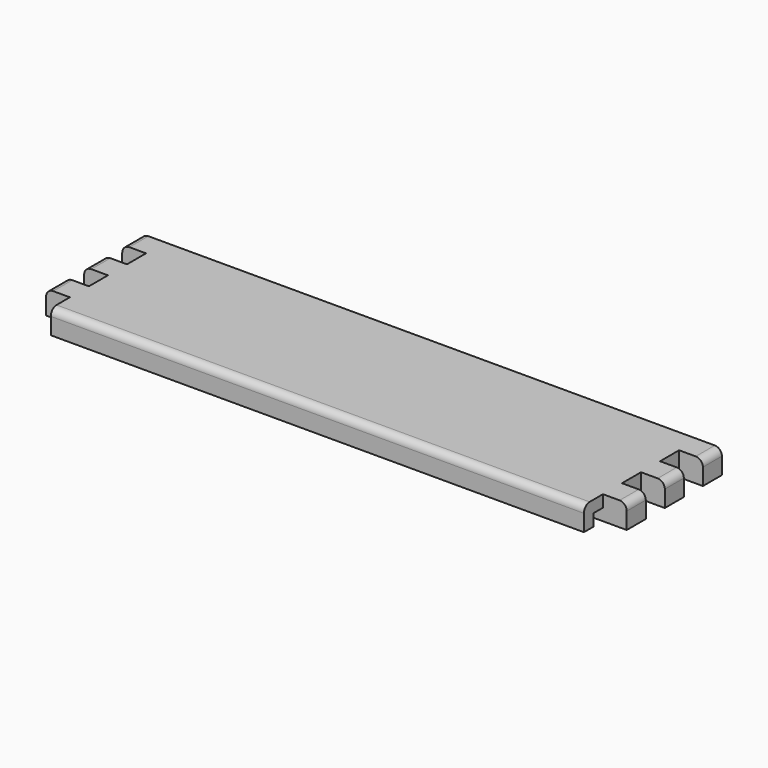
from build123d import *

# Parameters (mm, degrees)
SKETCH_W        = 244
SKETCH_H        = 70
PAD_DEPTH       = 10
FILLET_R        = 3
FILLET001_R     = 3
FILLET002_R     = 3
FILLET003_R     = 3
POCKET_DEPTH    = 5
SKETCH002_W     = 10
SKETCH002_H     = 10
SKETCH002_W_2   = 244
POCKET001_DEPTH = 10.001


with BuildPart() as part:
    # Sketch → Pad (new body)
    with BuildSketch(Plane.XY):
        Rectangle(SKETCH_W, SKETCH_H)
    extrude(amount=PAD_DEPTH)

    # Fillet
    fillet_edges = [part.edges().sort_by_distance(p)[0] for p in [
        (0, -35, 10),
    ]]
    fillet(fillet_edges, radius=FILLET_R)

    # Fillet001
    fillet001_edges = [part.edges().sort_by_distance(p)[0] for p in [
        (-122, 1.5, 10),
    ]]
    fillet(fillet001_edges, radius=FILLET001_R)

    # Fillet002
    fillet002_edges = [part.edges().sort_by_distance(p)[0] for p in [
        (1.5, 35, 10),
    ]]
    fillet(fillet002_edges, radius=FILLET002_R)

    # Fillet003
    fillet003_edges = [part.edges().sort_by_distance(p)[0] for p in [
        (122, 0, 10),
    ]]
    fillet(fillet003_edges, radius=FILLET003_R)

    # Sketch001 (on Face2 of Fillet003) → Pocket (cut)
    with BuildSketch(Plane(origin=(0, 0, 0), x_dir=(1, 0, 0), z_dir=(0, 0, -1))):
        with BuildLine():
            ThreePointArc((-117, 30), (-119.5, 27.5), (-117, 25))
            Line((-117, 25), (117, 25))
            ThreePointArc((117, 25), (119.5, 27.5), (117, 30))
            Line((-117, 30), (117, 30))
        make_face()
    extrude(amount=-POCKET_DEPTH, mode=Mode.SUBTRACT)

    # Sketch002 (on Face2 of Pocket) → Pocket001 (cut, through all)
    with BuildSketch(Plane(origin=(0, 0, 0), x_dir=(1, 0, 0), z_dir=(0, 0, -1))):
        with Locations((-117, 10)):
            Rectangle(SKETCH002_W, SKETCH002_H)
        with Locations((-117, 30)):
            Rectangle(SKETCH002_W, SKETCH002_H)
        with Locations((-117, -10)):
            Rectangle(SKETCH002_W, SKETCH002_H)
        with Locations((117, 10)):
            Rectangle(SKETCH002_W, SKETCH002_H)
        with Locations((117, 30)):
            Rectangle(SKETCH002_W, SKETCH002_H)
        with Locations((117, -10)):
            Rectangle(SKETCH002_W, SKETCH002_H)
        with Locations((0, -30)):
            Rectangle(SKETCH002_W_2, SKETCH002_H)
    extrude(amount=-POCKET001_DEPTH, mode=Mode.SUBTRACT)


solid = part.part
